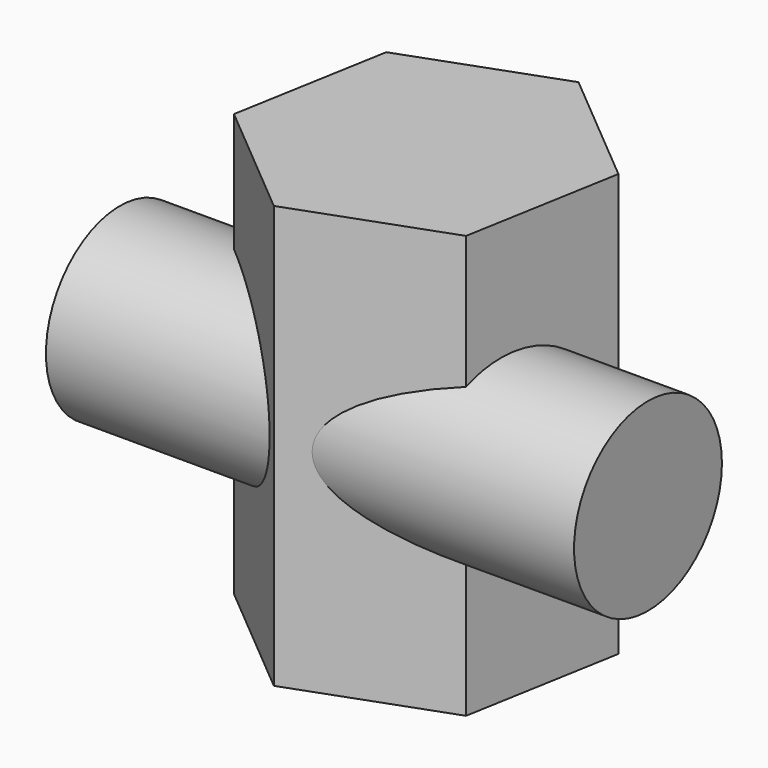
from build123d import *

# Parameters (mm, degrees)
F1_DEPTH = 40
F2_R     = 17.5
F3_DEPTH = 50


with BuildPart() as f1:
    # F0 (on Top) → F1 (new body, symmetric)
    with BuildSketch(Plane.XY):
        Polygon((28.1907786236, 10.2606042998), (5.20944533, 29.5442325904), (-22.9813332936, 19.2836282906), (-28.1907786236, -10.2606042998), (-5.20944533, -29.5442325904), (22.9813332936, -19.2836282906), align=None)
    extrude(amount=F1_DEPTH, both=True)

    # F2 (on Right) → F3 (join, symmetric)
    with BuildSketch(Plane.YZ):
        with Locations((-10, 0)):
            Circle(F2_R)
    extrude(amount=F3_DEPTH, both=True)


solid = f1.part
